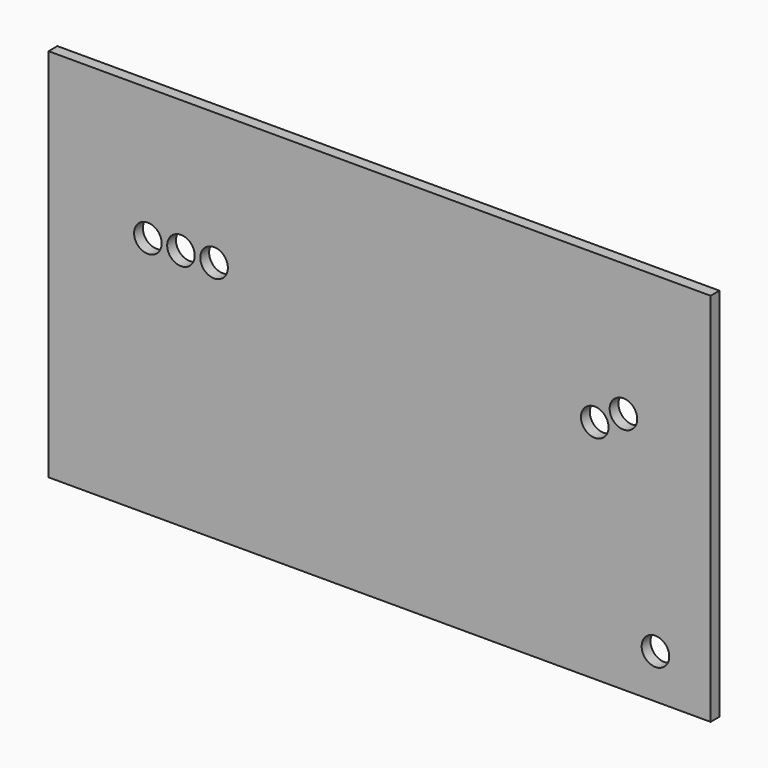
from build123d import *

# Parameters (mm, degrees)
F0_W     = 190.5
F0_H     = 107.95
F0_R     = 3.96875
F1_DEPTH = 3.175


with BuildPart() as f1:
    # F0 (on Front) → F1 (new body)
    with BuildSketch(Plane.XZ):
        with Locations((95.25, -53.975)):
            Rectangle(F0_W, F0_H)
        with Locations((174.625, -95.25)):
            Circle(F0_R, mode=Mode.SUBTRACT)
        with Locations((28.575, -38.1)):
            Circle(F0_R, mode=Mode.SUBTRACT)
        with Locations((38.1, -38.1)):
            Circle(F0_R, mode=Mode.SUBTRACT)
        with Locations((47.625, -38.1)):
            Circle(F0_R, mode=Mode.SUBTRACT)
        with Locations((157.1625, -42.8625)):
            Circle(F0_R, mode=Mode.SUBTRACT)
        with Locations((165.409956, -38.097513)):
            Circle(F0_R, mode=Mode.SUBTRACT)
    extrude(amount=F1_DEPTH)


solid = f1.part
